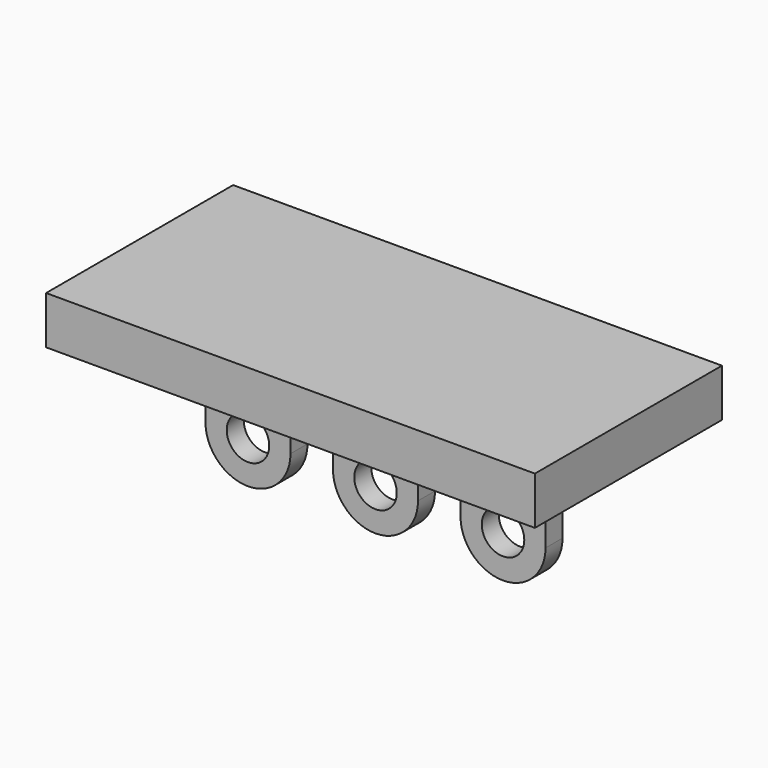
from build123d import *

# Parameters (mm, degrees)
SKETCH006_R  = 0.5
PAD003_DEPTH = 0.25
BOX_W        = 11.5
BOX_H        = 5.5
BOX_DEPTH    = 1.125


with BuildPart() as pin_pad:
    # Sketch006 → Pad003 (new body, symmetric)
    with BuildSketch(Plane.XZ):
        with BuildLine():
            Line((1, -1.25), (1, -3.25))
            ThreePointArc((-1, -3.25), (0, -4.25), (1, -3.25))
            Line((-1, -3.25), (-1, -1.25))
            Line((-1, -1.25), (1, -1.25))
        make_face()
        with Locations((0, -3.25)):
            Circle(SKETCH006_R, mode=Mode.SUBTRACT)
    extrude(amount=PAD003_DEPTH, both=True)


with BuildPart() as pin_right:
    # Clone base: copy of pin-pad
    add(pin_pad.part)


with BuildPart() as pin_right_1:
    # Clone placement: moved
    add(pin_right.part.moved(Location((3, 0, 0))))


with BuildPart() as pin_left:
    # Clone001 base: copy of pin-pad
    add(pin_pad.part)


with BuildPart() as pin_left_1:
    # Clone001 placement: moved
    add(pin_left.part.moved(Location((-3, 0, 0))))


with BuildPart() as board_cube:
    # Box → Box (new body)
    with BuildSketch(Plane(origin=(-5.75, -2.75, -1.25), x_dir=(1, 0, 0), z_dir=(0, 0, 1))):
        with Locations((5.75, 2.75)):
            Rectangle(BOX_W, BOX_H)
    extrude(amount=BOX_DEPTH)


with BuildPart() as slide_switch_board:
    # Fusion base: copy of pin-pad
    add(pin_pad.part)

    # Fusion: union pin-right, pin-left, board-cube
    add(pin_right_1.part)
    add(pin_left_1.part)
    add(board_cube.part)


solid = slide_switch_board.part
